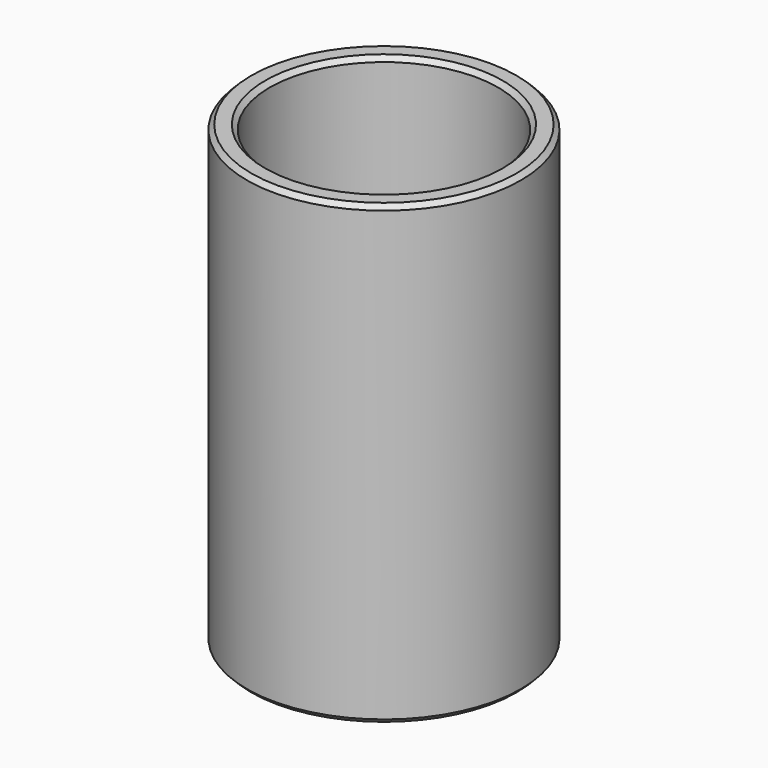
from build123d import *

# Parameters (mm, degrees)
SKETCH_R     = 15
SKETCH_R_2   = 12.5
PAD_DEPTH    = 50
CHAMFER_SIZE = 0.5


with BuildPart() as part:
    # Sketch → Pad (new body)
    with BuildSketch(Plane.XY):
        Circle(SKETCH_R)
        Circle(SKETCH_R_2, mode=Mode.SUBTRACT)
    extrude(amount=PAD_DEPTH)

    # Chamfer
    chamfer_edges = [part.edges().sort_by_distance(p)[0] for p in [
        (-15, 0, 50),
        (-12.5, 0, 50),
        (-15, 0, 0),
        (-12.5, 0, 0),
    ]]
    chamfer(chamfer_edges, length=CHAMFER_SIZE)


solid = part.part
